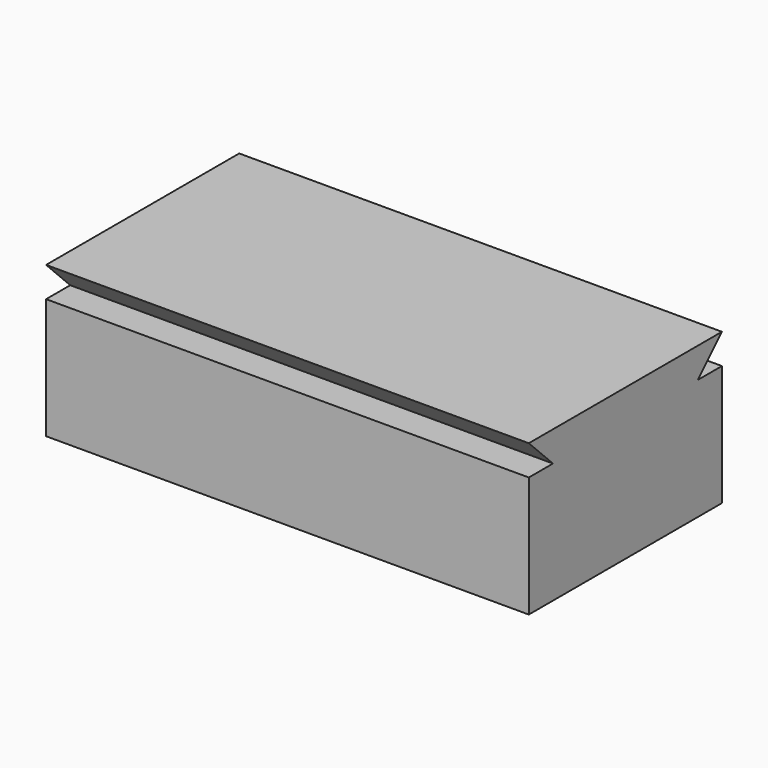
from build123d import *

# Parameters (mm, degrees)
F0_W     = 203.2
F0_H     = 101.6
F1_DEPTH = 63.5
F3_DEPTH = 215.9
F5_DEPTH = 215.9


with BuildPart() as f1:
    # F0 (on Top) → F1 (new body)
    with BuildSketch(Plane.XY):
        Rectangle(F0_W, F0_H)
    extrude(amount=F1_DEPTH)

    # F2 (on face) → F3 (cut)
    with BuildSketch(Plane.YZ.offset(101.6)):
        Polygon((50.8, 50.8), (50.8, 63.5), (38.1, 50.8), align=None)
    extrude(amount=-F3_DEPTH, mode=Mode.SUBTRACT)

    # F4 (on face) → F5 (cut)
    with BuildSketch(Plane.YZ.offset(101.6)):
        Polygon((-38.1, 50.8), (-50.8, 63.5), (-50.8, 50.8), align=None)
    extrude(amount=-F5_DEPTH, mode=Mode.SUBTRACT)


solid = f1.part
